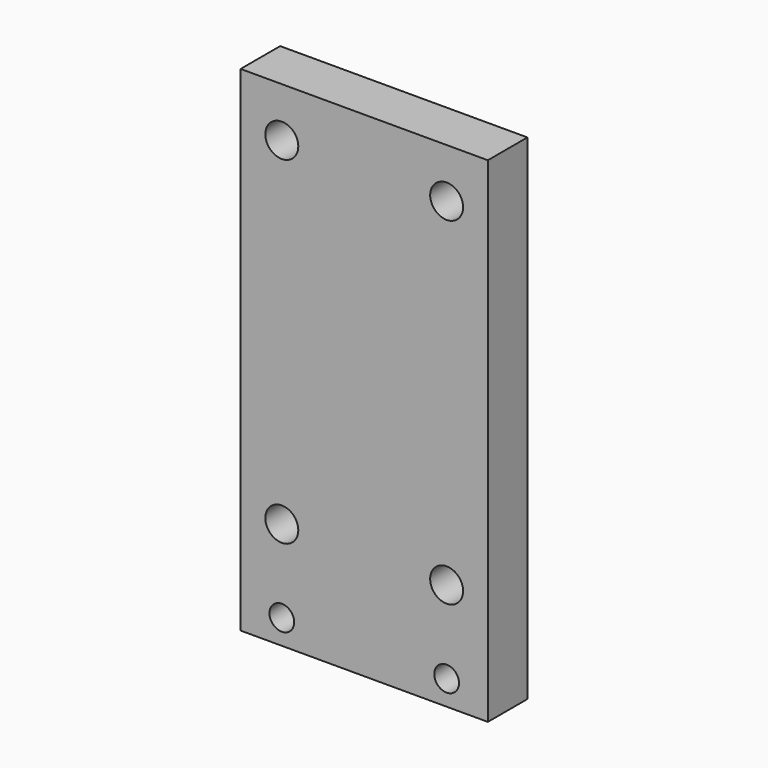
from build123d import *

# Parameters (mm, degrees)
F0_W     = 60
F0_H     = 120
F0_R     = 4
F1_DEPTH = 12
F3_D     = 6


with BuildPart() as f1:
    # F0 (on Front) → F1 (new body)
    with BuildSketch(Plane.XZ):
        with Locations((-0.328343, 20.633268)):
            Rectangle(F0_W, F0_H)
        with Locations((-20.328343, -13.366732)):
            Circle(F0_R, mode=Mode.SUBTRACT)
        with Locations((19.671657, -13.366732)):
            Circle(F0_R, mode=Mode.SUBTRACT)
        with Locations((-20.328343, 68.633268)):
            Circle(F0_R, mode=Mode.SUBTRACT)
        with Locations((19.671657, 68.633268)):
            Circle(F0_R, mode=Mode.SUBTRACT)
    extrude(amount=F1_DEPTH)

    # F3 (through all)
    with Locations(Plane.XZ.offset(12)):
        with Locations((-20.328343, -33.366732), (19.671657, -33.366732)):
            Hole(F3_D / 2)


solid = f1.part
